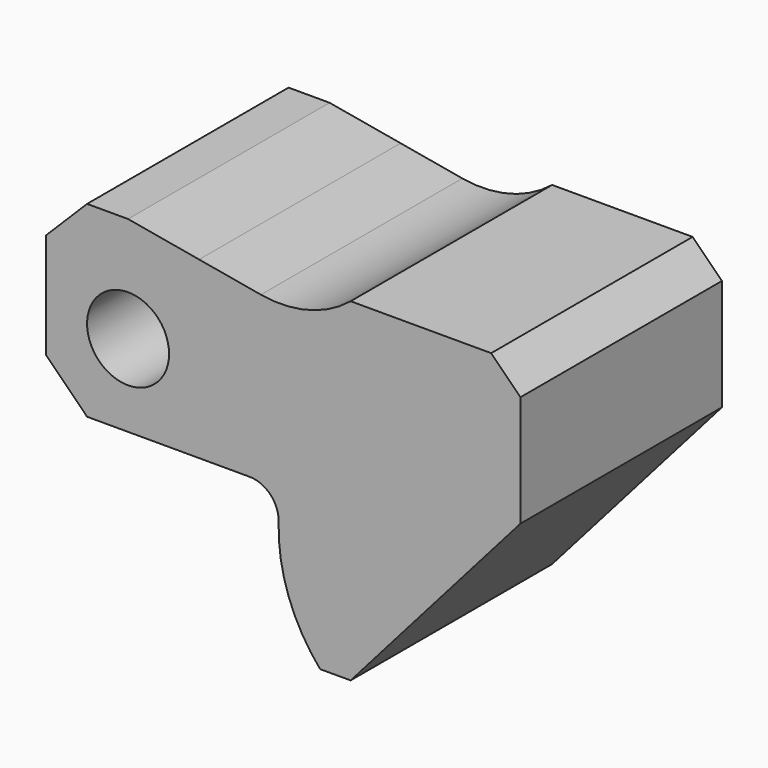
from build123d import *

# Parameters (mm, degrees)
F0_R     = 7
F1_DEPTH = 21.5


with BuildPart() as f1:
    # F0 (on Front) → F1 (new body, symmetric)
    with BuildSketch(Plane.XZ):
        with BuildLine():
            Line((12.131271, 15.86093), (0, 18))
            Line((0, 18), (-7, 18))
            Line((-7, 18), (-14, 11))
            Line((-14, 11), (-14, -7))
            Line((-14, -7), (-7, -14))
            Line((-7, -14), (0, -14))
            Line((0, -14), (20.711679, -14))
            ThreePointArc((20.711679, -14), (24.298829, -15.516847), (25.709516, -19.147059))
            ThreePointArc((25.709516, -19.147059), (27.381322, -29.739374), (32.788067, -39))
            Line((32.788067, -39), (38, -39))
            Line((38, -39), (67, -6))
            Line((67, -6), (67, 13))
            Line((67, 13), (62, 18))
            Line((62, 18), (38, 18))
            ThreePointArc((38, 18), (30.77553, 14.328365), (22.678194, 14.001223))
            Line((22.678194, 14.001223), (12.131271, 15.86093))
        make_face()
        Circle(F0_R, mode=Mode.SUBTRACT)
    extrude(amount=F1_DEPTH, both=True)


solid = f1.part
